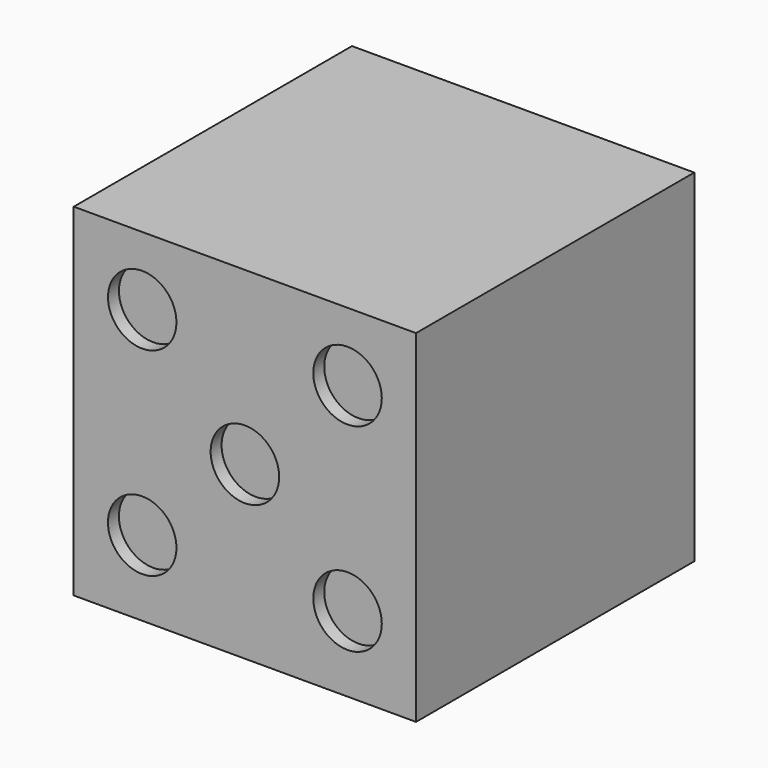
from build123d import *

# Parameters (mm, degrees)
F0_W     = 25
F0_H     = 25
F1_DEPTH = 25.4
F2_R     = 2.5
F2_R_2   = 2.5019
F3_DEPTH = 1
F4_R     = 2.5019
F5_DEPTH = 2
F6_R     = 2.5019
F7_DEPTH = 2


with BuildPart() as f1:
    # F0 (on Front) → F1 (new body)
    with BuildSketch(Plane.XZ):
        with Locations((-12.5, 24.625)):
            Rectangle(F0_W, F0_H)
    extrude(amount=F1_DEPTH)

    # F2 (on face) → F3 (cut)
    with BuildSketch(Plane.XZ.offset(25.4)):
        with Locations((-20, 32.125)):
            Circle(F2_R)
        with Locations((-12.5, 24.625)):
            Circle(F2_R_2)
        with Locations((-5.0038, 32.1212)):
            Circle(F2_R_2)
        with Locations((-5.0038, 17.6269)):
            Circle(F2_R_2)
        with Locations((-20, 17.6269)):
            Circle(F2_R_2)
    extrude(amount=-F3_DEPTH, mode=Mode.SUBTRACT)

    # F4 (on face) → F5 (cut)
    with BuildSketch(Plane(origin=(0, 0, 0), x_dir=(-1, 0, 0), z_dir=(0, 1, 0))):
        with Locations((5.0038, 32.1212)):
            Circle(F4_R)
        with Locations((19.9962, 17.1288)):
            Circle(F4_R)
    extrude(amount=-F5_DEPTH, mode=Mode.SUBTRACT)

    # F6 (on face) → F7 (cut)
    with BuildSketch(Plane(origin=(0, 0, 12.125), x_dir=(1, 0, 0), z_dir=(0, 0, -1))):
        with Locations((-5.0038, 5.3848)):
            Circle(F6_R)
        with Locations((-20.2438, 12.8905)):
            Circle(F6_R)
        with Locations((-5.0038, 12.8905)):
            Circle(F6_R)
        with Locations((-5.0038, 20.3962)):
            Circle(F6_R)
        with Locations((-20.2438, 20.3962)):
            Circle(F6_R)
        with Locations((-20.2438, 5.3848)):
            Circle(F6_R)
    extrude(amount=-F7_DEPTH, mode=Mode.SUBTRACT)


solid = f1.part
